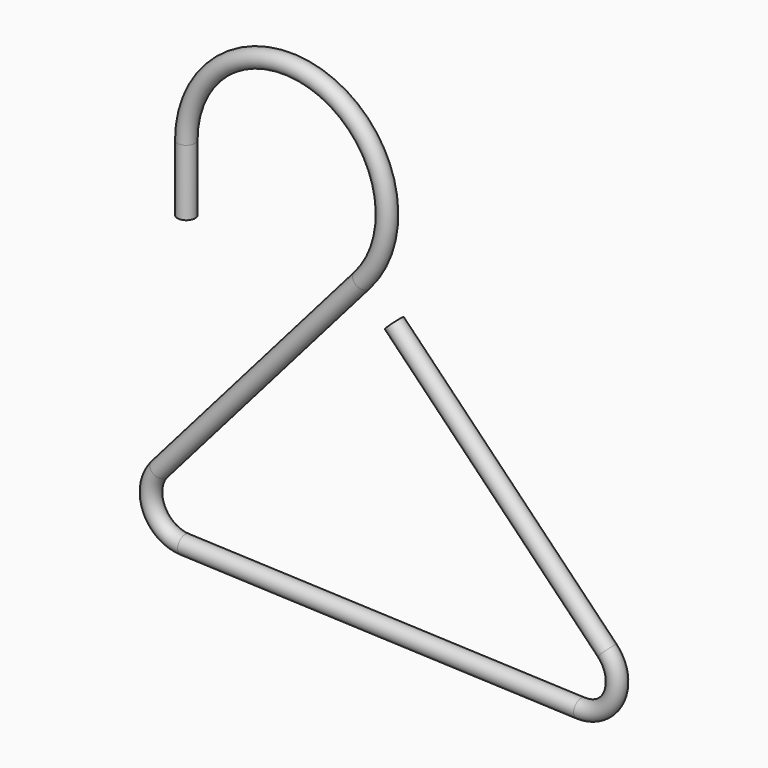
from build123d import *

# Parameters (mm, degrees)
F1_R = 1.5961106


with BuildPart() as f2:
    # F2: sweep along a path in F0
    with BuildLine(Plane.XZ) as f2_path:
        Line((-6.9580445253, 0), (-6.9580445253, 11.9551244375))
        ThreePointArc((-6.9580445253, 11.9551244375), (17.6107018393, 28.9826452432), (24.9295840919, 0))
        Line((24.9295840919, 0), (-11.7892465184, -42.0864411339))
        ThreePointArc((-11.7892465184, -42.0864411339), (-12.8350251699, -48.7762139122), (-7.2513464974, -52.6062589896))
        Line((-7.2513464974, -52.6062589896), (64.4998676804, -55.3990395556))
        ThreePointArc((64.4998676804, -55.3990395556), (70.54710566, -51.6383067584), (69.2995553841, -44.6271858307))
        Line((69.2995553841, -44.6271858307), (30.713789165, -4.9426425248))
    # F1 (on Top) → F2 (sweep)
    with BuildSketch(Plane.XY):
        with Locations((-6.9580445253, 0)):
            Circle(F1_R)
    sweep(path=f2_path.line)


solid = f2.part
